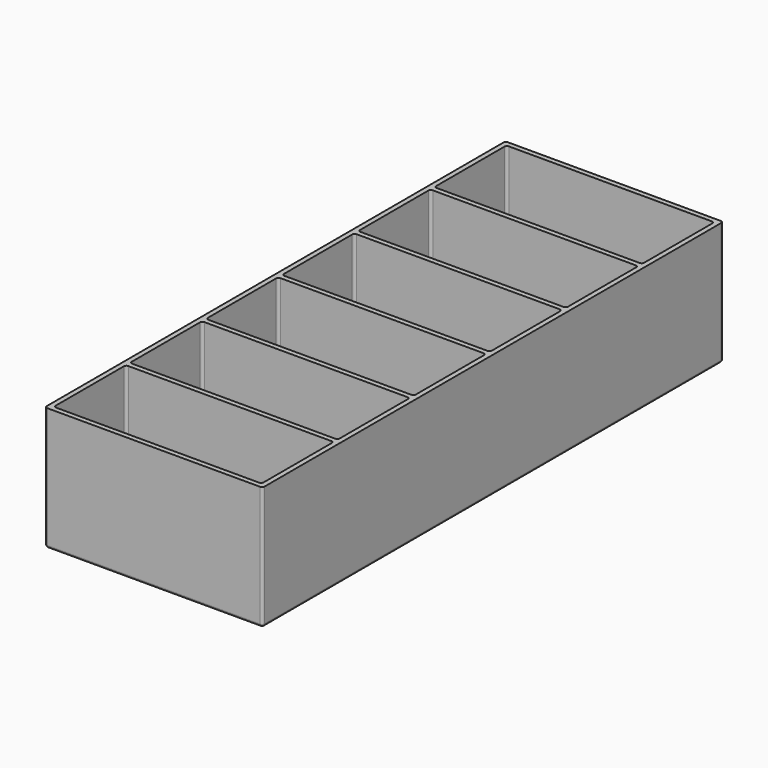
from build123d import *

# Parameters (mm, degrees)
F0_W     = 43.8
F0_H     = 115.8
F1_DEPTH = 24.8
F2_W     = 41.8
F2_H     = 18.133333
F2_H_2   = 18.133334
F3_DEPTH = 23.8
F4_R     = 0.5
F5_R     = 0.5
F6_R     = 0.5


with BuildPart() as f1:
    # F0 (on Top) → F1 (new body)
    with BuildSketch(Plane.XY):
        with Locations((21.9, -57.9)):
            Rectangle(F0_W, F0_H)
    extrude(amount=F1_DEPTH)

    # F2 (on face) → F3 (cut)
    with BuildSketch(Plane.XY.offset(24.8)):
        with Locations((21.9, -10.066667)):
            Rectangle(F2_W, F2_H)
        with Locations((21.9, -29.2)):
            Rectangle(F2_W, F2_H_2)
        with Locations((21.9, -48.333333)):
            Rectangle(F2_W, F2_H)
        with Locations((21.9, -67.466667)):
            Rectangle(F2_W, F2_H)
        with Locations((21.9, -86.6)):
            Rectangle(F2_W, F2_H_2)
        with Locations((21.9, -105.733333)):
            Rectangle(F2_W, F2_H)
    extrude(amount=-F3_DEPTH, mode=Mode.SUBTRACT)

    # F4
    f4_edges = [f1.edges().sort_by_distance(p)[0] for p in [
        (43.8, 0, 12.4),
        (43.8, -115.8, 12.4),
        (0, -115.8, 12.4),
        (0, 0, 12.4),
        (0, -57.9, 0),
        (21.9, -115.8, 0),
        (21.9, 0, 0),
        (43.8, -57.9, 0),
    ]]
    fillet(f4_edges, radius=F4_R)

    # F5
    f5_edges = [f1.edges().sort_by_distance(p)[0] for p in [
        (1, -1, 12.9),
        (42.8, -1, 12.9),
        (42.8, -20.133333, 12.9),
        (42.8, -39.266667, 12.9),
        (42.8, -58.4, 12.9),
        (42.8, -77.533333, 12.9),
        (42.8, -96.666667, 12.9),
        (42.8, -114.8, 12.9),
        (1, -114.8, 12.9),
        (1, -95.666667, 12.9),
        (1, -76.533333, 12.9),
        (1, -57.4, 12.9),
        (1, -38.266667, 12.9),
        (1, -19.133333, 12.9),
    ]]
    fillet(f5_edges, radius=F5_R)

    # F6
    f6_edges = [f1.edges().sort_by_distance(p)[0] for p in [
        (42.8, -19.133333, 12.9),
        (42.8, -38.266667, 12.9),
        (42.8, -57.4, 12.9),
        (1, -20.133333, 12.9),
        (1, -39.266667, 12.9),
        (1, -58.4, 12.9),
        (42.8, -76.533333, 12.9),
        (42.8, -95.666667, 12.9),
        (1, -77.533333, 12.9),
        (1, -96.666667, 12.9),
    ]]
    fillet(f6_edges, radius=F6_R)


solid = f1.part
